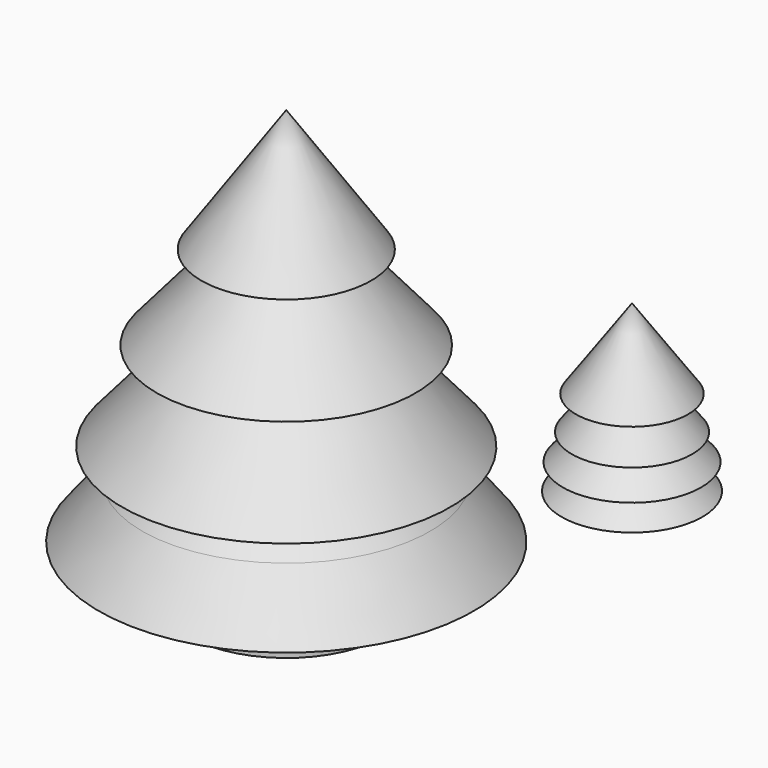
from build123d import *


with BuildPart() as f1:
    # F0 (on Front) → F1 (revolve)
    with BuildSketch(Plane.XZ):
        Polygon((-114.819929, -61.437625), (-117.71109, -84.575385), (-117.71109, -90.008549), (-80.952182, -77.689752), (-80.952182, 69.354415), (-112.341806, 23.947125), (-94.581887, 32.791167), (-128.862649, -7.255402), (-104.081385, 3.615532), (-141.666323, -40.276013), (-111.102745, -23.19264), (-134.23194, -50.520532), (-150.339767, -71.278296), (-132.579848, -66.564471), align=None)
    revolve(axis=Axis((-80.952182, 0, -4.167669), (0, 0, -1)))


with BuildPart() as f3:
    # F2 (on Front) → F3 (revolve)
    with BuildSketch(Plane.XZ):
        Polygon((46.958279, -20.148093), (51.091362, -20.246407), (51.091362, -6.936916), (72.978832, -13.150348), (58.835313, 0), (72.544649, -3.660155), (56.22565, 13.08597), (69.230705, 6.077625), (53.238485, 27.023317), (67.693859, 18.560231), (46.958279, 48.036549), align=None)
    revolve(axis=Axis((46.958279, 0, 13.944228), (0, 0, -1)))


solid = Compound([f1.part, f3.part])
